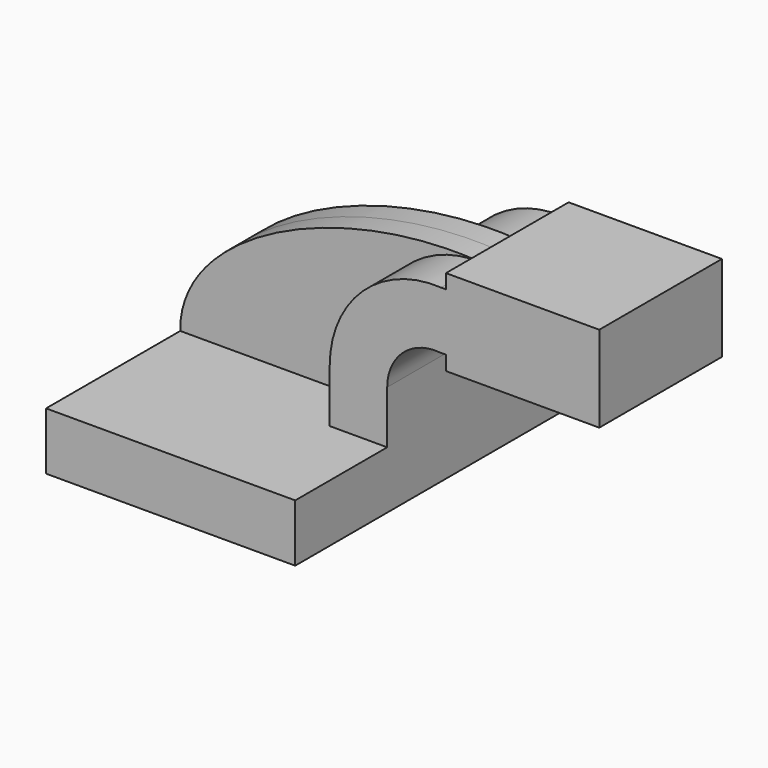
from build123d import *

# Parameters (mm, degrees)
F1_DEPTH = 63.5
F2_DEPTH = 25.4
F3_DEPTH = 7.9375


with BuildPart() as f1:
    # F0 (on Front) → F1 (new body, symmetric)
    with BuildSketch(Plane.XZ):
        Polygon((41.275, -9.525), (41.275, 9.525), (22.225, 9.525), (-41.275, 9.525), (-41.275, -9.525), align=None)
    extrude(amount=F1_DEPTH, both=True)

    # F0 (on Front) → F2 (join, symmetric)
    with BuildSketch(Plane.XZ):
        with BuildLine():
            Line((22.225, 9.525), (41.275, 9.525))
            Line((41.275, 9.525), (41.275, 27.055227))
            ThreePointArc((41.275, 27.055227), (46.40173, 38.738134), (58.470631, 42.8752))
            Line((58.470631, 42.8752), (60.744337, 42.8752))
            Line((60.744337, 42.8752), (60.744337, 61.9252))
            Line((60.744337, 61.9252), (59.109739, 61.9252))
            ThreePointArc((59.109739, 61.9252), (33.15717, 52.434347), (22.225, 27.055227))
            Line((22.225, 27.055227), (22.225, 9.525))
        make_face()
        Polygon((60.744337, 61.9252), (60.744337, 42.8752), (60.744337, 38.1), (111.544337, 38.1), (111.544337, 66.675), (60.744337, 66.675), align=None)
    extrude(amount=F2_DEPTH, both=True)

    # F0 (on Front) → F3 (join, symmetric)
    with BuildSketch(Plane.XZ):
        Polygon((60.744337, 61.9252), (60.744337, 42.8752), (60.744337, 38.1), (111.544337, 38.1), (111.544337, 66.675), (60.744337, 66.675), align=None)
        Polygon((41.275, -9.525), (41.275, 9.525), (22.225, 9.525), (-41.275, 9.525), (-41.275, -9.525), align=None)
        with BuildLine():
            Line((22.225, 9.525), (41.275, 9.525))
            Line((41.275, 9.525), (41.275, 27.055227))
            ThreePointArc((41.275, 27.055227), (46.40173, 38.738134), (58.470631, 42.8752))
            Line((58.470631, 42.8752), (60.744337, 42.8752))
            Line((60.744337, 42.8752), (60.744337, 61.9252))
            Line((60.744337, 61.9252), (59.109739, 61.9252))
            ThreePointArc((59.109739, 61.9252), (33.15717, 52.434347), (22.225, 27.055227))
            Line((22.225, 27.055227), (22.225, 9.525))
        make_face()
        with BuildLine():
            Line((-41.275, 9.525), (22.225, 9.525))
            Line((22.225, 9.525), (22.225, 27.055227))
            ThreePointArc((22.225, 27.055227), (33.15717, 52.434347), (59.109739, 61.9252))
            add(Edge.make_bspline(
                [(-41.275, 9.525), (-41.747715, 40.443104), (11.415395, 65.556966), (59.109739, 61.9252)],
                knots=[0, 0, 0, 0, 113.238142, 113.238142, 113.238142, 113.238142], degree=3))
        make_face()
    extrude(amount=F3_DEPTH, both=True)


solid = f1.part
